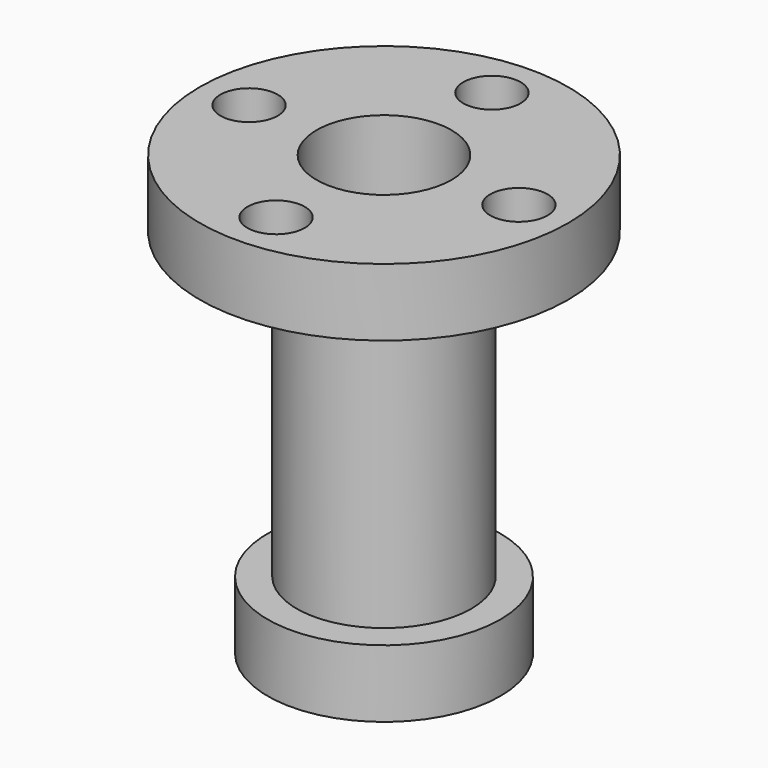
from build123d import *

# Parameters (mm, degrees)
F0_R     = 10.925
F0_R_2   = 4
F1_DEPTH = 4
F2_R     = 1.7
F3_DEPTH = 4
F4_R     = 5.175
F4_R_2   = 4
F5_DEPTH = 11
F6_DEPTH = 11
F7_R     = 6.9
F7_R_2   = 5.175
F8_DEPTH = 4


with BuildPart() as f1:
    # F0 (on Top) → F1 (new body)
    with BuildSketch(Plane.XY):
        Circle(F0_R)
        Circle(F0_R_2, mode=Mode.SUBTRACT)
    extrude(amount=F1_DEPTH)

    # F2 (on face) → F3 (cut, through all)
    with BuildSketch(Plane.XY.offset(4)):
        with Locations((0, 8)):
            Circle(F2_R)
        with Locations((-8, 0)):
            Circle(F2_R)
        with Locations((8, 0)):
            Circle(F2_R)
        with Locations((0, -8)):
            Circle(F2_R)
    extrude(amount=-F3_DEPTH, mode=Mode.SUBTRACT)

    # F4 (on face) → F5 (join)
    with BuildSketch(Plane(origin=(0, 0, 0), x_dir=(1, 0, 0), z_dir=(0, 0, -1))):
        Circle(F4_R)
        Circle(F4_R_2, mode=Mode.SUBTRACT)
    extrude(amount=F5_DEPTH)

    # F6 (add): a face of the model
    f6_faces = [f1.faces().sort_by_distance(p)[0] for p in [
        (-5.0286288963, 0, -11),
    ]]
    extrude(f6_faces, amount=F6_DEPTH)

    # F7 (on face) → F8 (join)
    with BuildSketch(Plane(origin=(0, 0, -22), x_dir=(1, 0, 0), z_dir=(0, 0, -1))):
        Circle(F7_R)
        Circle(F7_R_2, mode=Mode.SUBTRACT)
    extrude(amount=-F8_DEPTH)


solid = f1.part
